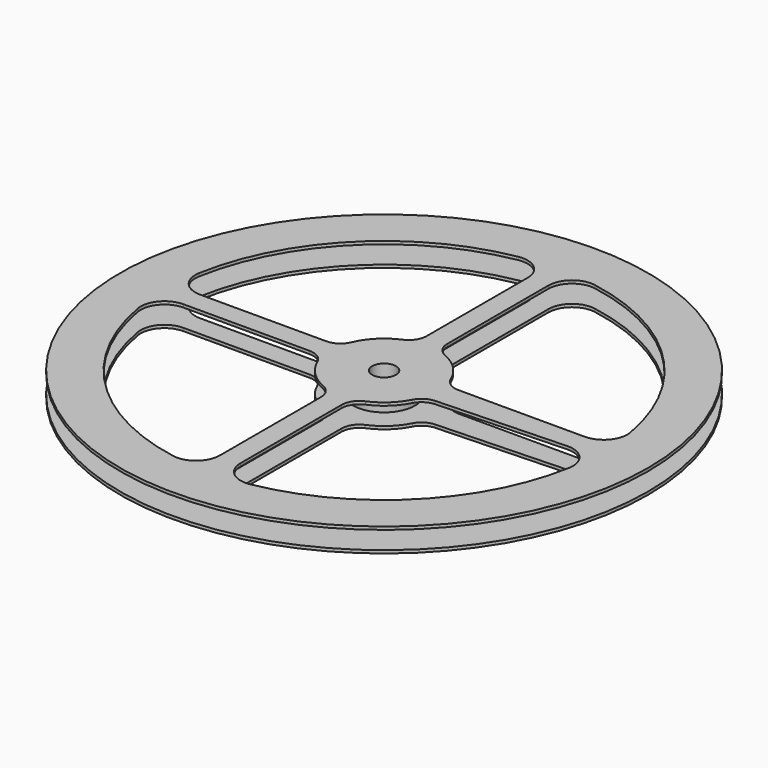
from build123d import *

# Parameters (mm, degrees)
F0_R     = 88.9
F0_R_2   = 10.45593
F0_R_3   = 4
F1_DEPTH = 1
F4_DEPTH = 8
F3_R     = 88.9
F3_R_2   = 4
F5_DEPTH = 1


with BuildPart() as f1:
    # F0 (on Top) → F1 (new body)
    with BuildSketch(Plane.XY):
        Circle(F0_R)
        with BuildLine():
            ThreePointArc((-72.645684, -12.898561), (-70.900296, -6.361347), (-64.768881, -3.5))
            Line((-64.768881, -3.5), (-22.273598, -3.5))
            ThreePointArc((-22.273598, -3.5), (-18.966296, -4.493828), (-16.754625, -7.146081))
            ThreePointArc((-16.754625, -7.146081), (-12.879905, -12.879905), (-7.146081, -16.754625))
            ThreePointArc((-7.146081, -16.754625), (-4.493828, -18.966296), (-3.5, -22.273598))
            Line((-3.5, -22.273598), (-3.5, -64.768881))
            ThreePointArc((-3.5, -64.768881), (-6.361347, -70.900296), (-12.898561, -72.645684))
            ThreePointArc((-12.898561, -72.645684), (-52.17168, -52.17168), (-72.645684, -12.898561))
        make_face(mode=Mode.SUBTRACT)
        with BuildLine():
            ThreePointArc((72.645684, -12.898561), (52.17168, -52.17168), (12.898561, -72.645684))
            ThreePointArc((12.898561, -72.645684), (6.361347, -70.900296), (3.5, -64.768881))
            Line((3.5, -64.768881), (3.5, -22.273598))
            ThreePointArc((3.5, -22.273598), (4.493828, -18.966296), (7.146081, -16.754625))
            ThreePointArc((7.146081, -16.754625), (12.398278, -13.344161), (16.184999, -8.356418))
            ThreePointArc((16.184999, -8.356418), (18.300608, -6.043543), (21.29386, -5.113148))
            Line((21.29386, -5.113148), (64.768881, -3.5))
            ThreePointArc((64.768881, -3.5), (70.900296, -6.361347), (72.645684, -12.898561))
        make_face(mode=Mode.SUBTRACT)
        with BuildLine():
            ThreePointArc((-72.645684, 12.898561), (-52.17168, 52.17168), (-12.898561, 72.645684))
            ThreePointArc((-12.898561, 72.645684), (-6.361347, 70.900296), (-3.5, 64.768881))
            Line((-3.5, 64.768881), (-3.5, 22.273598))
            ThreePointArc((-3.5, 22.273598), (-4.493828, 18.966296), (-7.146081, 16.754625))
            ThreePointArc((-7.146081, 16.754625), (-12.879905, 12.879905), (-16.754625, 7.146081))
            ThreePointArc((-16.754625, 7.146081), (-18.966296, 4.493828), (-22.273598, 3.5))
            Line((-22.273598, 3.5), (-64.768881, 3.5))
            ThreePointArc((-64.768881, 3.5), (-70.900296, 6.361347), (-72.645684, 12.898561))
        make_face(mode=Mode.SUBTRACT)
        Circle(F0_R_2, mode=Mode.SUBTRACT)
        with BuildLine():
            Line((3.5, 22.273598), (3.5, 64.768881))
            ThreePointArc((3.5, 64.768881), (6.361347, 70.900296), (12.898561, 72.645684))
            ThreePointArc((12.898561, 72.645684), (52.17168, 52.17168), (72.645684, 12.898561))
            ThreePointArc((72.645684, 12.898561), (70.900296, 6.361347), (64.768881, 3.5))
            Line((64.768881, 3.5), (22.273598, 3.5))
            ThreePointArc((22.273598, 3.5), (18.966296, 4.493828), (16.754625, 7.146081))
            ThreePointArc((16.754625, 7.146081), (12.879905, 12.879905), (7.146081, 16.754625))
            ThreePointArc((7.146081, 16.754625), (4.493828, 18.966296), (3.5, 22.273598))
        make_face(mode=Mode.SUBTRACT)
        Circle(F0_R_2)
        Circle(F0_R_3, mode=Mode.SUBTRACT)
    extrude(amount=F1_DEPTH)

    # F0 (on Top) → F4 (join)
    with BuildSketch(Plane.XY):
        Circle(F0_R_2)
        Circle(F0_R_3, mode=Mode.SUBTRACT)
    extrude(amount=F4_DEPTH)

    # F3 (on offset) → F5 (join)
    with BuildSketch(Plane.XY.offset(7)):
        Circle(F3_R)
        with BuildLine():
            Line((-3.5, -22.273598), (-3.5, -64.768881))
            ThreePointArc((-3.5, -64.768881), (-6.361347, -70.900296), (-12.898561, -72.645684))
            ThreePointArc((-12.898561, -72.645684), (-52.17168, -52.17168), (-72.645684, -12.898561))
            ThreePointArc((-72.645684, -12.898561), (-70.900296, -6.361347), (-64.768881, -3.5))
            Line((-64.768881, -3.5), (-22.273598, -3.5))
            ThreePointArc((-22.273598, -3.5), (-18.966296, -4.493828), (-16.754625, -7.146081))
            ThreePointArc((-16.754625, -7.146081), (-12.879905, -12.879905), (-7.146081, -16.754625))
            ThreePointArc((-7.146081, -16.754625), (-4.493828, -18.966296), (-3.5, -22.273598))
        make_face(mode=Mode.SUBTRACT)
        with BuildLine():
            ThreePointArc((7.146081, -16.754625), (12.398278, -13.344161), (16.184999, -8.356418))
            ThreePointArc((16.184999, -8.356418), (18.300608, -6.043543), (21.29386, -5.113148))
            Line((21.29386, -5.113148), (64.768881, -3.5))
            ThreePointArc((64.768881, -3.5), (70.900296, -6.361347), (72.645684, -12.898561))
            ThreePointArc((72.645684, -12.898561), (52.17168, -52.17168), (12.898561, -72.645684))
            ThreePointArc((12.898561, -72.645684), (6.361347, -70.900296), (3.5, -64.768881))
            Line((3.5, -64.768881), (3.5, -22.273598))
            ThreePointArc((3.5, -22.273598), (4.493828, -18.966296), (7.146081, -16.754625))
        make_face(mode=Mode.SUBTRACT)
        with BuildLine():
            ThreePointArc((-7.146081, 16.754625), (-12.879905, 12.879905), (-16.754625, 7.146081))
            ThreePointArc((-16.754625, 7.146081), (-18.966296, 4.493828), (-22.273598, 3.5))
            Line((-22.273598, 3.5), (-64.768881, 3.5))
            ThreePointArc((-64.768881, 3.5), (-70.900296, 6.361347), (-72.645684, 12.898561))
            ThreePointArc((-72.645684, 12.898561), (-52.17168, 52.17168), (-12.898561, 72.645684))
            ThreePointArc((-12.898561, 72.645684), (-6.361347, 70.900296), (-3.5, 64.768881))
            Line((-3.5, 64.768881), (-3.5, 22.273598))
            ThreePointArc((-3.5, 22.273598), (-4.493828, 18.966296), (-7.146081, 16.754625))
        make_face(mode=Mode.SUBTRACT)
        Circle(F3_R_2, mode=Mode.SUBTRACT)
        with BuildLine():
            ThreePointArc((16.754625, 7.146081), (12.879905, 12.879905), (7.146081, 16.754625))
            ThreePointArc((7.146081, 16.754625), (4.493828, 18.966296), (3.5, 22.273598))
            Line((3.5, 22.273598), (3.5, 64.768881))
            ThreePointArc((3.5, 64.768881), (6.361347, 70.900296), (12.898561, 72.645684))
            ThreePointArc((12.898561, 72.645684), (52.17168, 52.17168), (72.645684, 12.898561))
            ThreePointArc((72.645684, 12.898561), (70.900296, 6.361347), (64.768881, 3.5))
            Line((64.768881, 3.5), (22.273598, 3.5))
            ThreePointArc((22.273598, 3.5), (18.966296, 4.493828), (16.754625, 7.146081))
        make_face(mode=Mode.SUBTRACT)
    extrude(amount=F5_DEPTH)


solid = f1.part
